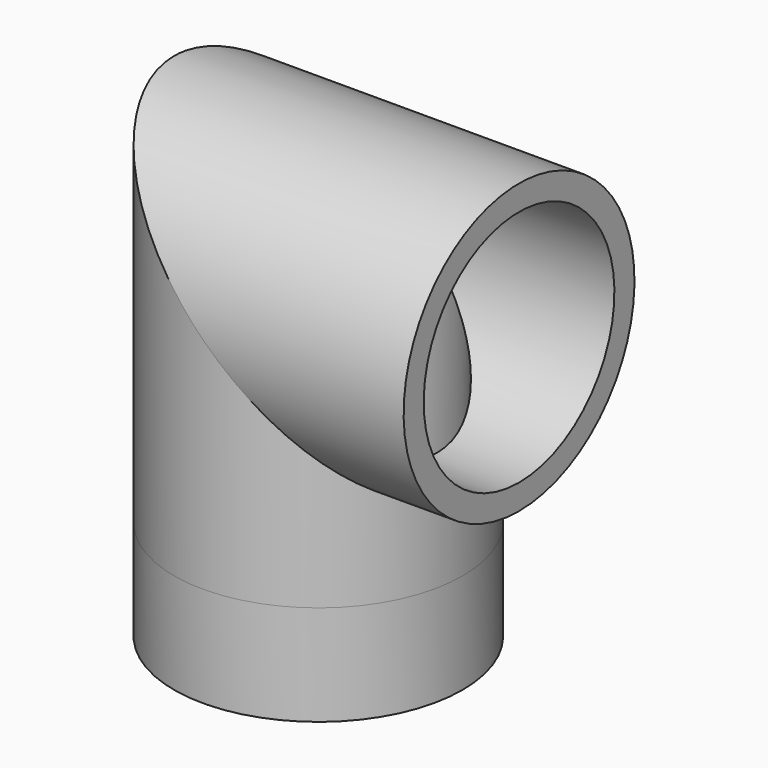
from build123d import *

# Parameters (mm, degrees)
F0_R        = 5.75
F0_R_2      = 4.75
F1_DEPTH    = 4
F1_FACE_R   = 5.75
F1_FACE_R_2 = 4.75


with BuildPart() as f1:
    # F0 (on Top) → F1 (new body)
    with BuildSketch(Plane.XY):
        Circle(F0_R)
        Circle(F0_R_2, mode=Mode.SUBTRACT)
    extrude(amount=F1_DEPTH)

    # F5: sweep along a path in F4
    with BuildLine(Plane.XZ) as f5_path:
        Line((0, 4), (0, 12.7547773101))
        Line((0, 12.7547773101), (8, 12.7547773101))
    # F1_face (on face) → F5 (sweep)
    with BuildSketch(Plane.XY.offset(4)):
        Circle(F1_FACE_R)
        Circle(F1_FACE_R_2, mode=Mode.SUBTRACT)
    sweep(path=f5_path.line, transition=Transition.RIGHT)


solid = f1.part
